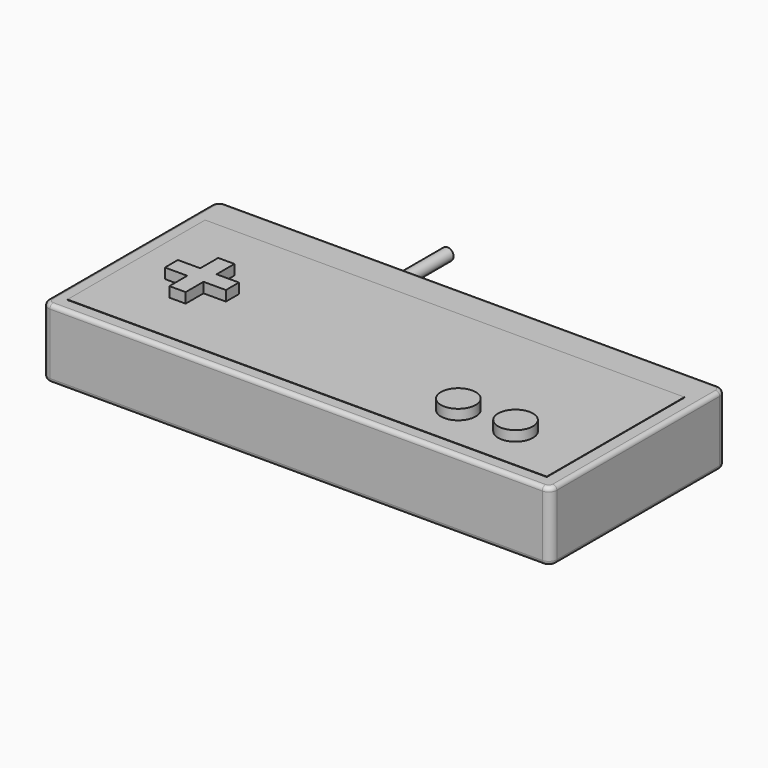
from build123d import *

# Parameters (mm, degrees)
F0_W      = 125
F0_H      = 54
F1_DEPTH  = 17
F2_R      = 2
F3_R      = 1
F4_W      = 117.8211255465
F4_H      = 42.2981732991
F5_DEPTH  = 0.1
F6_R      = 4.2859634774
F7_DEPTH  = 2.5
F8_W      = 4
F8_H      = 5.5
F8_H_2    = 4
F8_W_2    = 5.5
F9_DEPTH  = 2.5
F10_R     = 1.5
F11_DEPTH = 25


with BuildPart() as f1:
    # F0 (on Top) → F1 (new body)
    with BuildSketch(Plane.XY):
        with Locations((62.5, 27)):
            Rectangle(F0_W, F0_H)
    extrude(amount=F1_DEPTH)

    # F2
    f2_edges = [f1.edges().sort_by_distance(p)[0] for p in [
        (125, 54, 8.5),
        (125, 0, 8.5),
        (0, 0, 8.5),
        (0, 54, 8.5),
    ]]
    fillet(f2_edges, radius=F2_R)

    # F3
    f3_edges = [f1.edges().sort_by_distance(p)[0] for p in [
        (62.5, 0, 17),
        (62.5, 0, 0),
    ]]
    fillet(f3_edges, radius=F3_R)

    # F10 (on face) → F11 (join)
    with BuildSketch(Plane(origin=(0, 54, 0), x_dir=(-1, 0, 0), z_dir=(0, 1, 0))):
        with Locations((-36.5, 7)):
            Circle(F10_R)
    extrude(amount=F11_DEPTH)


with BuildPart() as f5:
    # F4 (on face) → F5 (new body)
    with BuildSketch(Plane.XY.offset(17)):
        with Locations((62.3436578317, 24.7231359826)):
            Rectangle(F4_W, F4_H)
    extrude(amount=F5_DEPTH)


with BuildPart() as f7:
    # F6 (on face) → F7 (new body)
    with BuildSketch(Plane.XY.offset(17.1)):
        with Locations((90.718537569, 14.5501866937)):
            Circle(F6_R)
    extrude(amount=F7_DEPTH)


with BuildPart() as f7b:
    # F6 (on face) → F7, piece 2 (new body)
    with BuildSketch(Plane.XY.offset(17.1)):
        with Locations((104.8476472497, 14.4802611321)):
            Circle(F6_R)
    extrude(amount=F7_DEPTH)


with BuildPart() as f9:
    # F8 (on face) → F9 (new body)
    with BuildSketch(Plane.XY.offset(17.1)):
        with Locations((20.2296683006, 28.64183532)):
            Rectangle(F8_W, F8_H)
        with Locations((20.2296683006, 23.89183532)):
            Rectangle(F8_W, F8_H_2)
        with Locations((15.4796683006, 23.89183532)):
            Rectangle(F8_W_2, F8_H_2)
        with Locations((24.9796683006, 23.89183532)):
            Rectangle(F8_W_2, F8_H_2)
        with Locations((20.2296683006, 19.14183532)):
            Rectangle(F8_W, F8_H)
    extrude(amount=F9_DEPTH)


solid = Compound([f1.part, f5.part, f7.part, f7b.part, f9.part])
